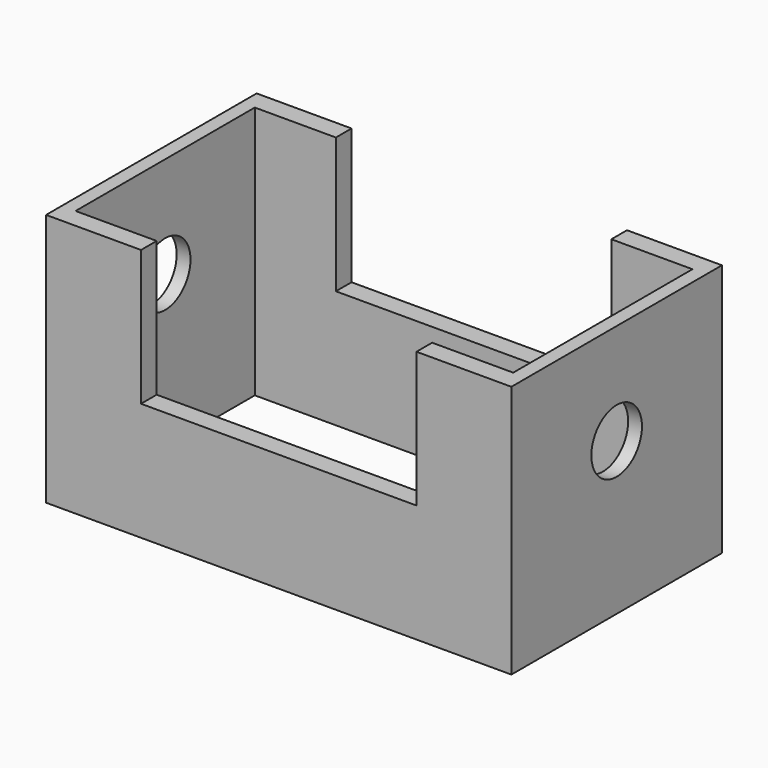
from build123d import *

# Parameters (mm, degrees)
F0_W     = 186.574548
F0_H     = 105.525456
F0_W_2   = 175.490916
F0_H_2   = 89.82364
F1_DEPTH = 101.6
F2_W     = 110.451512
F2_H     = 55.495151
F3_DEPTH = 115.824
F4_R     = 12.681558
F5_DEPTH = 207.264


with BuildPart() as f1:
    # F0 (on Top) → F1 (new body)
    with BuildSketch(Plane.XY):
        Rectangle(F0_W, F0_H)
        Rectangle(F0_W_2, F0_H_2, mode=Mode.SUBTRACT)
    extrude(amount=F1_DEPTH)

    # F2 (on face) → F3 (cut)
    with BuildSketch(Plane.XZ.offset(52.762728)):
        with Locations((0, 75.064696)):
            Rectangle(F2_W, F2_H)
    extrude(amount=-F3_DEPTH, mode=Mode.SUBTRACT)

    # F4 (on face) → F5 (cut)
    with BuildSketch(Plane.YZ.offset(93.287274)):
        with Locations((0, 61.056208)):
            Circle(F4_R)
    extrude(amount=-F5_DEPTH, mode=Mode.SUBTRACT)


solid = f1.part
